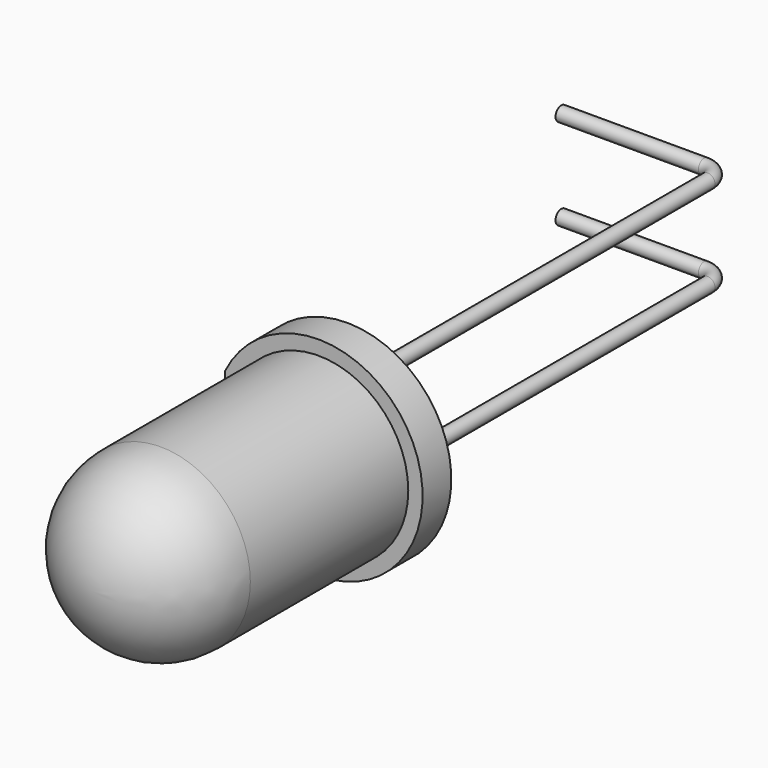
from build123d import *

# Parameters (mm, degrees)
F1_DEPTH = 1
F3_R     = 0.2
F5_R     = 2.5
F6_DEPTH = 8
F7_R     = 2.5


with BuildPart() as f1:
    # F0 (on Front) → F1 (new body)
    with BuildSketch(Plane.XZ):
        with BuildLine():
            ThreePointArc((-2.6, -1.2845232579), (2.9, 0), (-2.6, 1.2845232579))
            Line((-2.6, 1.2845232579), (-2.6, -1.2845232579))
        make_face()
    extrude(amount=F1_DEPTH)

    # F4: sweep along a path in F2
    with BuildLine(Plane.XY) as f4_path:
        Line((0, 0), (0, 12.5555443466))
        ThreePointArc((0, 12.5555443466), (-0.1464466094, 12.9090977372), (-0.5, 13.0555443466))
        Line((-0.5, 13.0555443466), (-4.480665084, 13.0555443466))
    # F3 (on Front) → F4 (sweep)
    with BuildSketch(Plane.XZ):
        with Locations((0, 1.27)):
            Circle(F3_R)
        with Locations((0, -1.27)):
            Circle(F3_R)
    sweep(path=f4_path.line)

    # F5 (on face) → F6 (join)
    with BuildSketch(Plane.XZ.offset(1)):
        Circle(F5_R)
    extrude(amount=F6_DEPTH)

    # F7
    f7_edges = [f1.edges().sort_by_distance(p)[0] for p in [
        (-2.5, -9, 0),
    ]]
    fillet(f7_edges, radius=F7_R)


solid = f1.part
